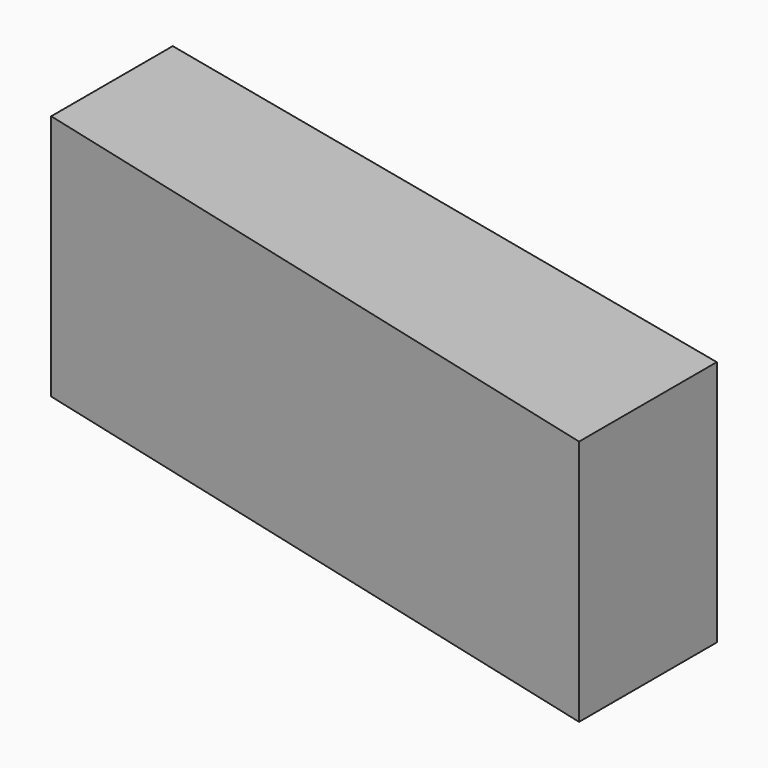
from build123d import *

# Parameters (mm, degrees)
F1_DEPTH = 25


with BuildPart() as f1:
    # F0 (on Top) → F1 (new body)
    with BuildSketch(Plane.XY):
        Polygon((0, -17.439062), (0, 0), (-67.423001, 15.392271), (-67.423001, 0), align=None)
    extrude(amount=-F1_DEPTH)


solid = f1.part
